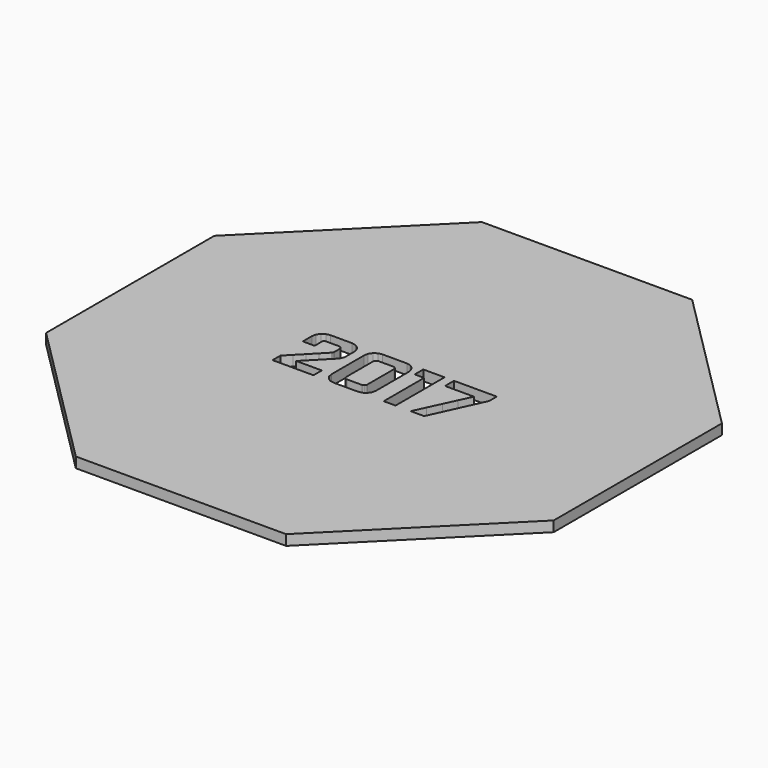
from build123d import *

# Parameters (mm, degrees)
F1_DEPTH = 2


with BuildPart() as f1:
    # F0 (on Top) → F1 (new body)
    with BuildSketch(Plane.XY):
        Polygon((48.999987, 20.296367), (20.296189, 49.000176), (-20.296909, 49.000176), (-49.000013, 20.296367), (-49.000013, -20.296377), (-20.296909, -49.000176), (20.296189, -49.000176), (48.999987, -20.296377), align=None)
        Polygon((-16.477957, 1.715611), (-17.049831, 1.715611), (-17.049831, 2.270141), (-17.049831, 2.82467), (-17.049831, 3.3792), (-17.049831, 3.933729), (-16.894637, 4.702583), (-16.471545, 5.330637), (-15.843671, 5.7539), (-15.074294, 5.909095), (-14.021587, 5.909095), (-12.968709, 5.909095), (-11.916002, 5.909095), (-10.863295, 5.909095), (-10.094271, 5.7539), (-9.466568, 5.330637), (-9.043476, 4.702583), (-8.888282, 3.933729), (-8.888282, 3.439719), (-8.888282, 2.945709), (-8.888282, 2.451689), (-8.888282, 1.957679), (-8.93804, 1.537013), (-9.07885, 1.138886), (-9.297503, 0.773363), (-9.581185, 0.449798), (-9.994049, 0.026877), (-10.64273, -0.637587), (-11.704104, -1.724973), (-12.765488, -2.812359), (-13.827033, -3.899745), (-12.592436, -3.899745), (-11.357658, -3.899745), (-10.122879, -3.899745), (-8.888282, -3.899745), (-8.888282, -4.402261), (-8.888282, -4.904596), (-8.888282, -5.406931), (-8.888282, -5.909447), (-10.863819, -5.909447), (-12.839356, -5.909447), (-14.814711, -5.909447), (-16.790248, -5.909447), (-16.790248, -5.437452), (-16.790248, -4.965286), (-16.790248, -4.49312), (-16.790248, -4.021126), (-15.434441, -2.62613), (-14.078463, -1.231134), (-12.722484, 0.163861), (-11.366496, 1.558857), (-11.285351, 1.64868), (-11.225526, 1.756189), (-11.188421, 1.873403), (-11.175757, 1.992005), (-11.175757, 2.321298), (-11.175757, 2.650581), (-11.175757, 2.979864), (-11.175757, 3.309147), (-11.221539, 3.540293), (-11.346736, 3.727387), (-11.533659, 3.852584), (-11.764452, 3.898356), (-12.41869, 3.898356), (-13.072917, 3.898356), (-13.727154, 3.898356), (-14.381392, 3.898356), (-14.528603, 3.867844), (-14.649984, 3.783739), (-14.732348, 3.657335), (-14.762698, 3.499544), (-14.762698, 3.053561), (-14.762698, 2.607578), (-14.762698, 2.161595), (-14.762698, 1.715611), (-15.334562, 1.715611), (-15.906264, 1.715611), align=None, mode=Mode.SUBTRACT)
        Polygon((1.480814, 4.702583), (1.635666, 3.933729), (1.635666, 1.962531), (1.635666, -0.008667), (1.635666, -1.979875), (1.635666, -3.951073), (1.480814, -4.717672), (1.059454, -5.339657), (0.436785, -5.757202), (-0.322536, -5.909447), (-1.492114, -5.909447), (-2.661692, -5.909447), (-3.83127, -5.909447), (-5.000839, -5.909447), (-5.770216, -5.757202), (-6.39827, -5.339657), (-6.821533, -4.717672), (-6.976728, -3.951073), (-6.976728, -1.979875), (-6.976728, -0.008667), (-6.976728, 1.962531), (-6.976728, 2.995638), (-6.976728, 3.933729), (-6.821533, 4.702583), (-6.39827, 5.330637), (-5.770216, 5.7539), (-5.000839, 5.909095), (-3.83127, 5.909095), (-2.661692, 5.909095), (-1.492114, 5.909095), (-0.322536, 5.909095), (0.436785, 5.7539), (1.059454, 5.330637), align=None, mode=Mode.SUBTRACT)
        Polygon((2.854661, 5.389073), (2.854661, 5.909095), (3.881527, 5.909095), (4.908222, 5.909095), (5.934917, 5.909095), (6.961794, 5.909095), (6.961794, 2.954376), (6.961794, -0.000171), (6.961794, -2.954718), (6.961794, -5.909447), (6.38992, -5.909447), (5.817704, -5.909447), (5.24583, -5.909447), (4.673966, -5.909447), (4.673966, -3.474921), (4.673966, -1.040225), (4.673966, 1.394472), (4.673966, 3.828998), (4.219135, 3.828998), (3.764313, 3.828998), (3.309482, 3.828998), (2.854661, 3.828998), (2.854661, 4.34902), (2.854661, 4.869051), align=None, mode=Mode.SUBTRACT)
        Polygon((8.783526, 5.3674), (8.783526, 5.909095), (10.850093, 5.909095), (12.91666, 5.909095), (14.983238, 5.909095), (17.049805, 5.909095), (17.049805, 5.454092), (17.049805, 4.999271), (17.049805, 4.544449), (17.049805, 4.089447), (15.906068, 1.589721), (14.76233, -0.909995), (13.618583, -3.409721), (12.475187, -5.909447), (11.7861, -5.909447), (11.097365, -5.909447), (10.40862, -5.909447), (9.719532, -5.909447), (9.762878, -5.90077), (9.805882, -5.892102), (9.849238, -5.883778), (9.892584, -5.87511), (11.01031, -3.470754), (12.128046, -1.066407), (13.245772, 1.337949), (14.363508, 3.742296), (12.968684, 3.742296), (11.573517, 3.742296), (10.17835, 3.742296), (8.783526, 3.742296), (8.783526, 4.284), (8.783526, 4.825695), align=None, mode=Mode.SUBTRACT)
        Polygon((-4.689424, -1.611917), (-4.689424, -3.223492), (-4.641215, -3.454627), (-4.511681, -3.641732), (-4.323549, -3.766928), (-4.099511, -3.8127), (-3.384935, -3.8127), (-2.67036, -3.8127), (-1.955784, -3.8127), (-1.241198, -3.8127), (-1.009892, -3.766928), (-0.822616, -3.641732), (-0.697078, -3.454627), (-0.651296, -3.223492), (-0.651296, -1.611917), (-0.651296, -0.000352), (-0.651296, 1.611223), (-0.651296, 3.222798), (-0.697078, 3.446655), (-0.822616, 3.634615), (-1.009892, 3.76415), (-1.241198, 3.812358), (-1.955784, 3.812358), (-2.67036, 3.812358), (-3.384935, 3.812358), (-4.099511, 3.812358), (-4.323549, 3.76415), (-4.511681, 3.634615), (-4.641215, 3.446655), (-4.689424, 3.222798), (-4.689424, 1.611223), (-4.689424, -0.000352), align=None)
    extrude(amount=F1_DEPTH)


solid = f1.part
